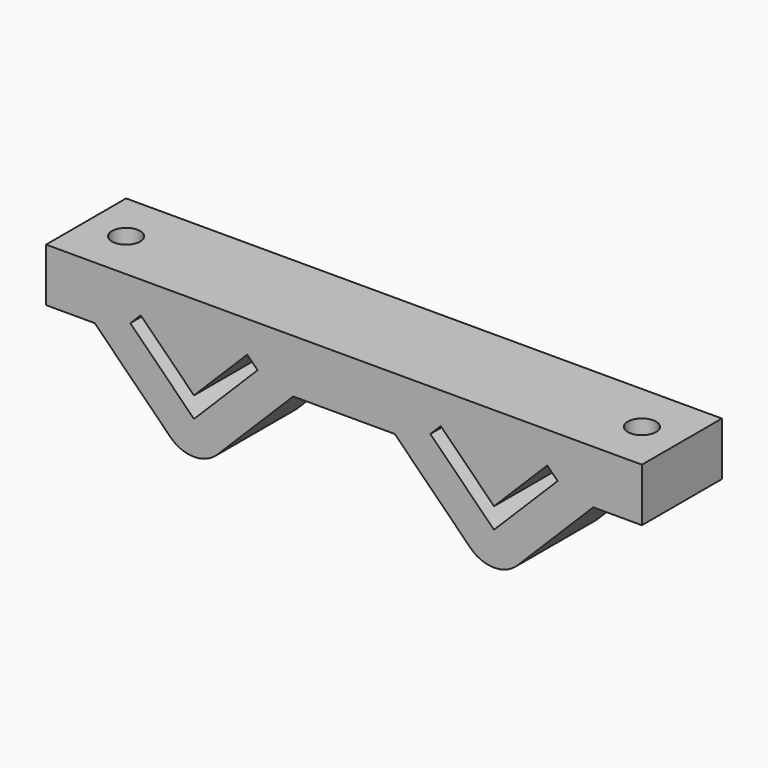
from build123d import *

# Parameters (mm, degrees)
F1_DEPTH = 15
F2_R     = 2.125
F3_DEPTH = 25
F5_DEPTH = 4
F6_R     = 5
F8_DEPTH = 25


with BuildPart() as f1:
    # F0 (on Front) → F1 (new body)
    with BuildSketch(Plane.XZ):
        Polygon((22.182061, 12.7), (15.317939, 12.7), (14.682061, 12.7), (-14.682061, 12.7), (-22.182061, 12.7), (-22.182061, 4.7), (-14.882338, 4.7), (-7.5, -2.682338), (0, -10.182338), (7.5, -2.682338), (14.882338, 4.7), (30.117662, 4.7), (37.5, -2.682338), (45, -10.182338), (52.5, -2.682338), (59.882338, 4.7), (67.182061, 4.7), (67.182061, 12.7), (59.682061, 12.7), (30.317939, 12.7), (29.682061, 12.7), (22.817939, 12.7), align=None)
        Polygon((-9.545942, 6.434672), (-7.990307, 7.990307), (0, 0), (7.990307, 7.990307), (9.545942, 6.434672), (0, -3.11127), align=None, mode=Mode.SUBTRACT)
        Polygon((35.454058, 6.434672), (37.009693, 7.990307), (45, 0), (52.990307, 7.990307), (54.545942, 6.434672), (45, -3.11127), align=None, mode=Mode.SUBTRACT)
    extrude(amount=F1_DEPTH)

    # F2 (on face) → F3 (cut)
    with BuildSketch(Plane.XY.offset(12.7)):
        with Locations((-16.182061, -7.5)):
            Circle(F2_R)
        with Locations((61.182061, -7.5)):
            Circle(F2_R)
    extrude(amount=-F3_DEPTH, mode=Mode.SUBTRACT)

    # F4 (on face) → F5 (cut)
    with BuildSketch(Plane(origin=(0, 0, 4.7), x_dir=(1, 0, 0), z_dir=(0, 0, -1))):
        Polygon((-19.107061, 9.18875), (-19.107061, 5.81125), (-16.182061, 4.122501), (-13.257061, 5.81125), (-13.257061, 9.18875), (-16.182061, 10.877499), align=None)
        Polygon((64.107061, 5.81125), (64.107061, 9.18875), (61.182061, 10.877499), (58.257061, 9.18875), (58.257061, 5.81125), (61.182061, 4.122501), align=None)
    extrude(amount=-F5_DEPTH, mode=Mode.SUBTRACT)

    # F6
    f6_edges = [f1.edges().sort_by_distance(p)[0] for p in [
        (0, -7.5, -10.182338),
        (45, -7.5, -10.182338),
    ]]
    fillet(f6_edges, radius=F6_R)

    # F7 (on face) → F8 (cut)
    with BuildSketch(Plane(origin=(0, 0, 8.7), x_dir=(1, 0, 0), z_dir=(0, 0, -1))):
        Polygon((-19.107061, 9.18875), (-19.107061, 5.81125), (-16.182061, 4.122501), (-13.257061, 5.81125), (-13.257061, 9.18875), (-16.182061, 10.877499), align=None)
        Polygon((64.107061, 5.81125), (64.107061, 9.18875), (61.182061, 10.877499), (58.257061, 9.18875), (58.257061, 5.81125), (61.182061, 4.122501), align=None)
    extrude(amount=F8_DEPTH, mode=Mode.SUBTRACT)


solid = f1.part
